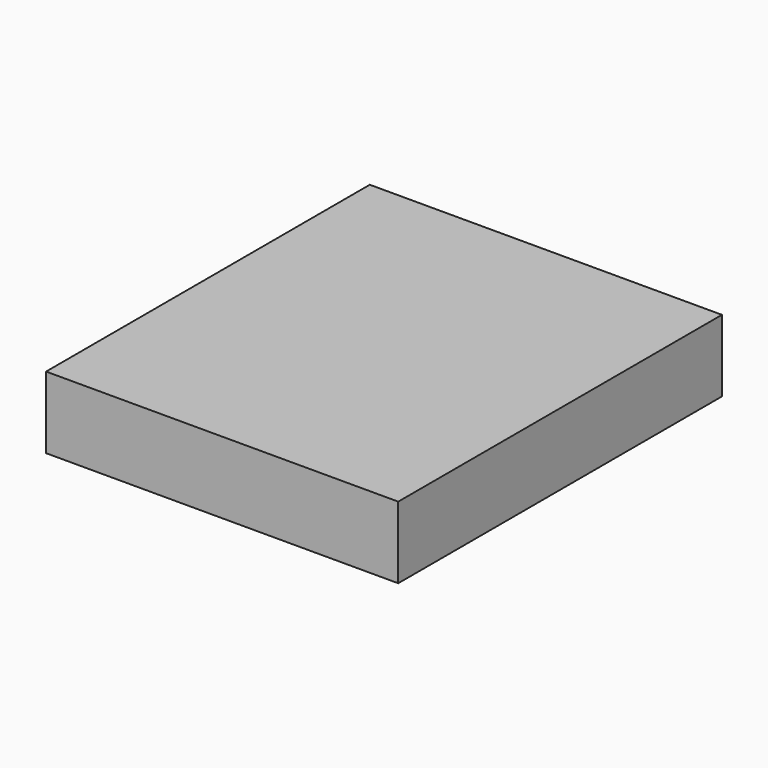
from build123d import *

# Parameters (mm, degrees)
F1_DEPTH = 25.4


with BuildPart() as f1:
    # F0 (on Top) → F1 (new body)
    with BuildSketch(Plane.XY):
        Polygon((-4.723144, 39.0549), (0, 10.050763), (37.328927, -56.744156), (39.576922, -60.766629), (39.576922, 39.0549), align=None)
        Polygon((37.328927, -56.744156), (0, 10.050763), (-4.723144, 39.0549), (-84.884219, 39.0549), (-84.884219, -103.943527), (39.576922, -103.943527), (39.576922, -60.766629), align=None)
    extrude(amount=F1_DEPTH)


solid = f1.part
